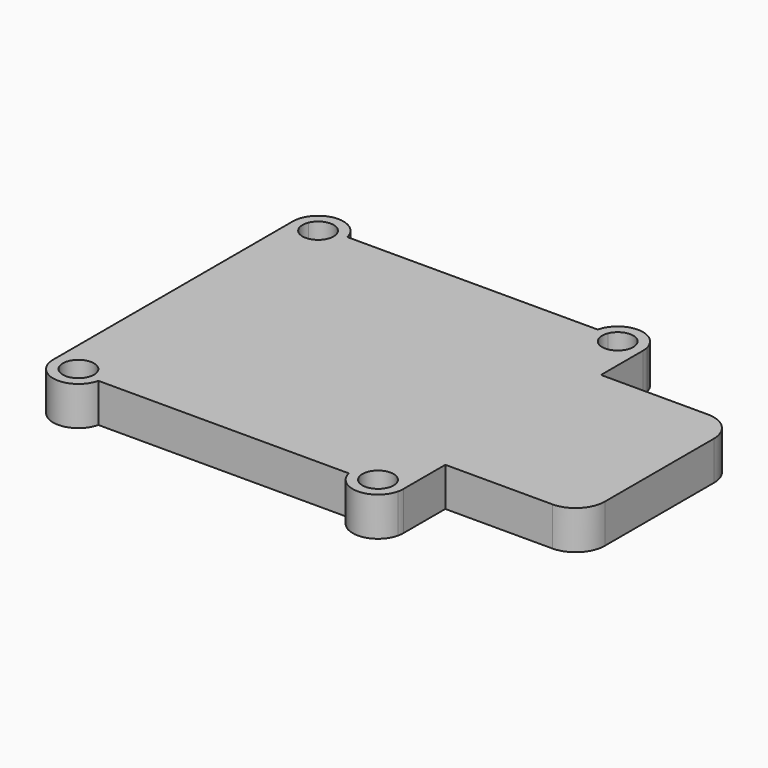
from build123d import *

# Parameters (mm, degrees)
F0_W     = 14
F0_H     = 20
F1_DEPTH = 4
F2_R     = 3


with BuildPart() as f1:
    # F0 (on Top) → F1 (new body)
    with BuildSketch(Plane.XY):
        with BuildLine():
            ThreePointArc((12.870178, -16), (15.097955, -12.817604), (18, -15.4))
            Line((18, -15.4), (18, -10))
            Line((18, -10), (4, -10))
            Line((4, -10), (4, 10))
            Line((4, 10), (18, 10))
            Line((18, 10), (18, 15.4))
            ThreePointArc((18, 15.4), (15.097955, 12.817604), (12.870178, 16))
            Line((12.870178, 16), (-12.870178, 16))
            ThreePointArc((-12.870178, 16), (-12.817604, 15.702045), (-12.8, 15.4))
            ThreePointArc((-12.8, 15.4), (-15.4, 12.8), (-18, 15.4))
            Line((-18, 15.4), (-18, -15.4))
            ThreePointArc((-18, -15.4), (-15.4, -12.8), (-12.8, -15.4))
            ThreePointArc((-12.8, -15.4), (-12.817604, -15.702045), (-12.870178, -16))
            Line((-12.870178, -16), (12.870178, -16))
        make_face()
        with BuildLine():
            Line((-13.91676, 16), (-12.870178, 16))
            ThreePointArc((-12.870178, 16), (-15.4, 18), (-17.929822, 16))
            Line((-17.929822, 16), (-16.88324, 16))
            ThreePointArc((-16.88324, 16), (-15.4, 17), (-13.91676, 16))
        make_face()
        with BuildLine():
            ThreePointArc((-12.8, 15.4), (-12.817604, 15.702045), (-12.870178, 16))
            Line((-12.870178, 16), (-13.91676, 16))
            ThreePointArc((-13.91676, 16), (-13.829461, 15.705628), (-13.8, 15.4))
            ThreePointArc((-13.8, 15.4), (-15.705628, 13.829461), (-16.88324, 16))
            Line((-16.88324, 16), (-17.929822, 16))
            ThreePointArc((-17.929822, 16), (-17.982396, 15.702045), (-18, 15.4))
            ThreePointArc((-18, 15.4), (-15.4, 12.8), (-12.8, 15.4))
        make_face()
        with BuildLine():
            ThreePointArc((12.870178, 16), (15.097955, 12.817604), (18, 15.4))
            ThreePointArc((18, 15.4), (17.982396, 15.702045), (17.929822, 16))
            Line((17.929822, 16), (16.88324, 16))
            ThreePointArc((16.88324, 16), (16.970539, 15.705628), (17, 15.4))
            ThreePointArc((17, 15.4), (15.094372, 13.829461), (13.91676, 16))
            Line((13.91676, 16), (12.870178, 16))
        make_face()
        with BuildLine():
            Line((16.88324, 16), (17.929822, 16))
            ThreePointArc((17.929822, 16), (15.4, 18), (12.870178, 16))
            Line((12.870178, 16), (13.91676, 16))
            ThreePointArc((13.91676, 16), (15.4, 17), (16.88324, 16))
        make_face()
        with BuildLine():
            ThreePointArc((12.870178, -16), (15.4, -18), (17.929822, -16))
            Line((17.929822, -16), (16.88324, -16))
            ThreePointArc((16.88324, -16), (15.4, -17), (13.91676, -16))
            Line((13.91676, -16), (12.870178, -16))
        make_face()
        with BuildLine():
            ThreePointArc((17.929822, -16), (17.982396, -15.702045), (18, -15.4))
            ThreePointArc((18, -15.4), (15.097955, -12.817604), (12.870178, -16))
            Line((12.870178, -16), (13.91676, -16))
            ThreePointArc((13.91676, -16), (15.094372, -13.829461), (17, -15.4))
            ThreePointArc((17, -15.4), (16.970539, -15.705628), (16.88324, -16))
            Line((16.88324, -16), (17.929822, -16))
        make_face()
        with BuildLine():
            Line((-13.91676, -16), (-12.870178, -16))
            ThreePointArc((-12.870178, -16), (-12.817604, -15.702045), (-12.8, -15.4))
            ThreePointArc((-12.8, -15.4), (-15.4, -12.8), (-18, -15.4))
            ThreePointArc((-18, -15.4), (-17.982396, -15.702045), (-17.929822, -16))
            Line((-17.929822, -16), (-16.88324, -16))
            ThreePointArc((-16.88324, -16), (-15.705628, -13.829461), (-13.8, -15.4))
            ThreePointArc((-13.8, -15.4), (-13.829461, -15.705628), (-13.91676, -16))
        make_face()
        with BuildLine():
            ThreePointArc((-17.929822, -16), (-15.4, -18), (-12.870178, -16))
            Line((-12.870178, -16), (-13.91676, -16))
            ThreePointArc((-13.91676, -16), (-15.4, -17), (-16.88324, -16))
            Line((-16.88324, -16), (-17.929822, -16))
        make_face()
        with Locations((11, 0)):
            Rectangle(F0_W, F0_H)
        with Locations((25, 0)):
            Rectangle(F0_W, F0_H)
    extrude(amount=F1_DEPTH)

    # F2
    f2_edges = [f1.edges().sort_by_distance(p)[0] for p in [
        (32, 10, 2),
        (32, -10, 2),
    ]]
    fillet(f2_edges, radius=F2_R)


solid = f1.part
